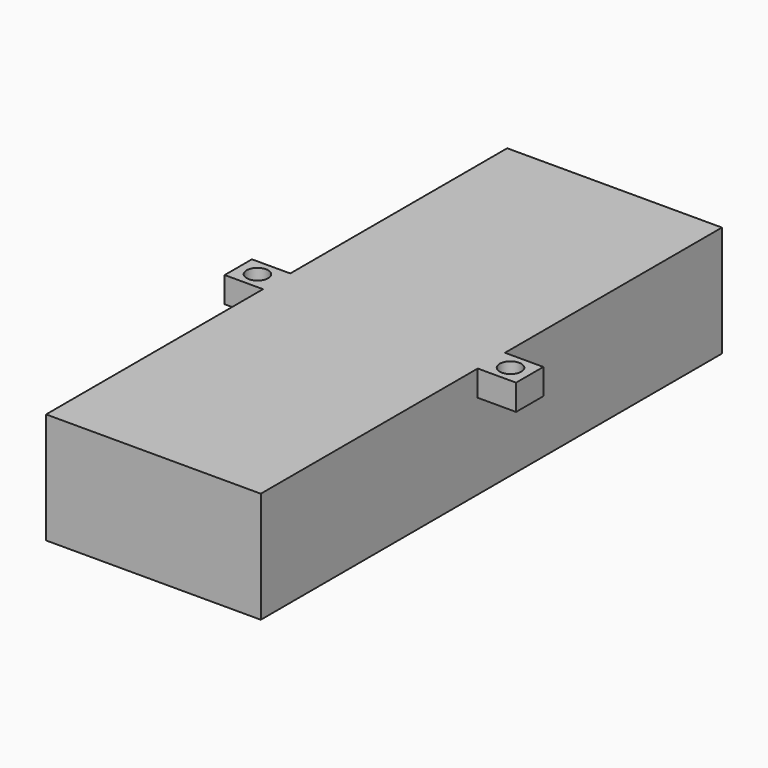
from build123d import *

# Parameters (mm, degrees)
F0_W     = 9
F0_H     = 8
F0_R     = 2.53
F1_DEPTH = 26.05
F2_W     = 47.3
F2_H     = 132.3
F3_DEPTH = 22.75
F4_DEPTH = 15
F5_DEPTH = 20
F6_DEPTH = 20
F7_R     = 8.024884
F8_DEPTH = 100


with BuildPart() as f1:
    # F0 (on Top) → F1 (new body)
    with BuildSketch(Plane.XY):
        Polygon((-25.2, -67.65), (25.2, -67.65), (25.2, -12.552832), (25.2, -4), (25.2, 4), (25.2, 67.65), (-25.2, 67.65), (-25.2, 4), (-25.2, -4), align=None)
        with Locations((-29.7, 0)):
            Rectangle(F0_W, F0_H)
        with Locations((-29.7, 0)):
            Circle(F0_R, mode=Mode.SUBTRACT)
        with Locations((29.7, 0)):
            Rectangle(F0_W, F0_H)
        with Locations((29.7, 0)):
            Circle(F0_R, mode=Mode.SUBTRACT)
    extrude(amount=F1_DEPTH)

    # F2 (on Top) → F3 (cut)
    with BuildSketch(Plane.XY):
        Rectangle(F2_W, F2_H)
    extrude(amount=F3_DEPTH, mode=Mode.SUBTRACT)

    # F0 (on Top) → F4 (join)
    with BuildSketch(Plane.XY):
        with Locations((29.7, 0)):
            Rectangle(F0_W, F0_H)
        with Locations((29.7, 0)):
            Circle(F0_R, mode=Mode.SUBTRACT)
    extrude(amount=F4_DEPTH)

    # F0 (on Top) → F5 (cut)
    with BuildSketch(Plane.XY):
        with Locations((29.7, 0)):
            Rectangle(F0_W, F0_H)
        with Locations((29.7, 0)):
            Circle(F0_R, mode=Mode.SUBTRACT)
    extrude(amount=F5_DEPTH, mode=Mode.SUBTRACT)

    # F0 (on Top) → F6 (cut)
    with BuildSketch(Plane.XY):
        with Locations((-29.7, 0)):
            Rectangle(F0_W, F0_H)
        with Locations((-29.7, 0)):
            Circle(F0_R, mode=Mode.SUBTRACT)
    extrude(amount=F6_DEPTH, mode=Mode.SUBTRACT)

    # F7 (on Front) → F8 (cut)
    with BuildSketch(Plane.XZ):
        with Locations((0, 11.503653)):
            Circle(F7_R)
    extrude(amount=-F8_DEPTH, mode=Mode.SUBTRACT)


solid = f1.part
